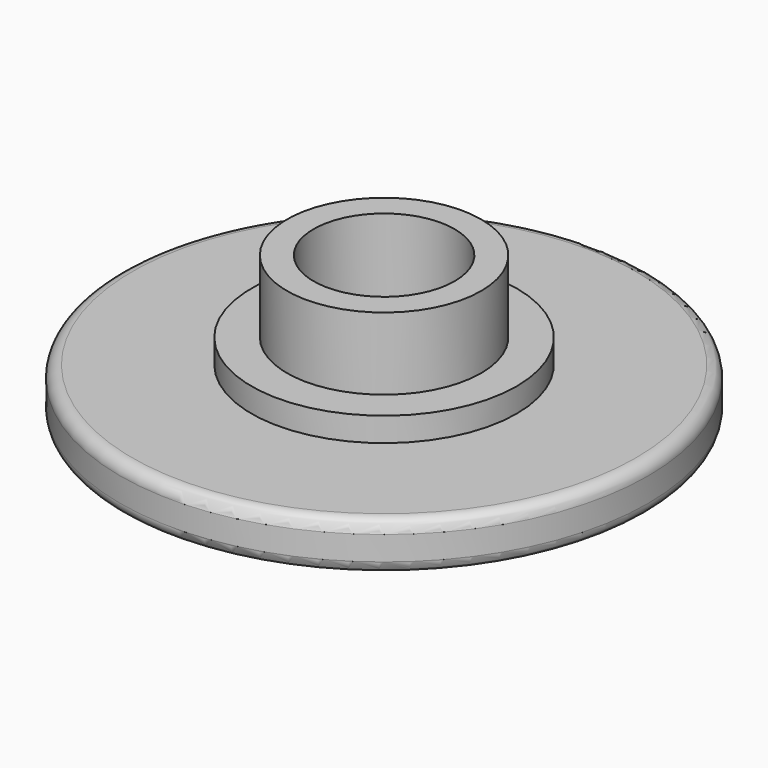
from build123d import *

# Parameters (mm, degrees)
F0_R     = 10.95
F0_R_2   = 0.069
F3_DEPTH = 2
F1_R     = 5.5
F4_DEPTH = 3
F2_R     = 4.025
F5_DEPTH = 6
F6_R     = 0.5
F7_R     = 2.925
F8_DEPTH = 4


with BuildPart() as f3:
    # F0 (on Top) → F3 (new body)
    with BuildSketch(Plane.XY):
        Circle(F0_R)
        Circle(F0_R_2, mode=Mode.SUBTRACT)
    extrude(amount=F3_DEPTH)

    # F1 (on Top) → F4 (join)
    with BuildSketch(Plane.XY):
        Circle(F1_R)
    extrude(amount=F4_DEPTH)

    # F2 (on Top) → F5 (join)
    with BuildSketch(Plane.XY):
        Circle(F2_R)
    extrude(amount=F5_DEPTH)

    # F6
    f6_edges = [f3.edges().sort_by_distance(p)[0] for p in [
        (10.95, 0, 1),
        (-10.95, 0, 0),
        (-10.95, 0, 2),
    ]]
    fillet(f6_edges, radius=F6_R)

    # F7 (on face) → F8 (cut)
    with BuildSketch(Plane.XY.offset(6)):
        Circle(F7_R)
    extrude(amount=-F8_DEPTH, mode=Mode.SUBTRACT)


solid = f3.part
